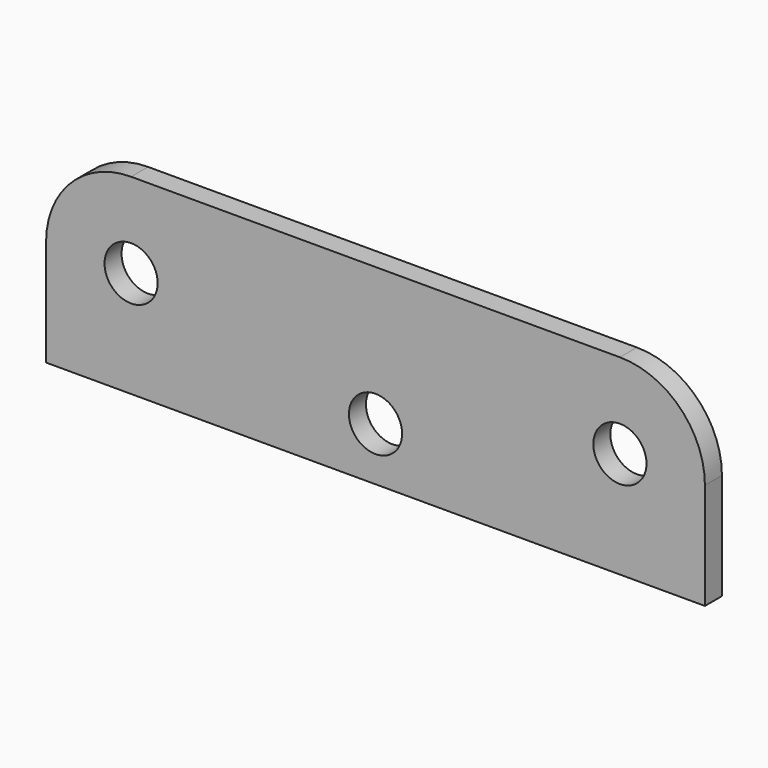
from build123d import *

# Parameters (mm, degrees)
F0_R     = 2.5
F1_DEPTH = 2


with BuildPart() as f1:
    # F0 (on Front) → F1 (new body)
    with BuildSketch(Plane.XZ):
        with BuildLine():
            Line((-31, -9), (31, -9))
            Line((31, -9), (31, 1))
            ThreePointArc((31, 1), (28.656854, 6.656854), (23, 9))
            Line((23, 9), (-23, 9))
            ThreePointArc((-23, 9), (-28.656854, 6.656854), (-31, 1))
            Line((-31, 1), (-31, -9))
        make_face()
        with Locations((0, -4)):
            Circle(F0_R, mode=Mode.SUBTRACT)
        with Locations((-23, 1)):
            Circle(F0_R, mode=Mode.SUBTRACT)
        with Locations((23, 1)):
            Circle(F0_R, mode=Mode.SUBTRACT)
    extrude(amount=F1_DEPTH)


solid = f1.part
